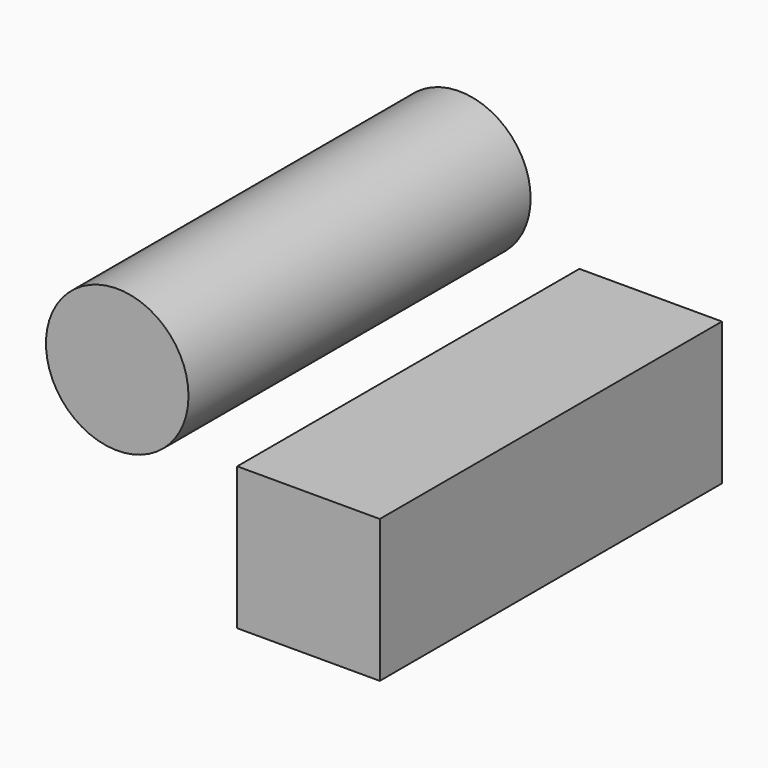
from build123d import *

# Parameters (mm, degrees)
F0_R     = 12.7
F0_W     = 25.4
F0_H     = 25.4
F1_DEPTH = 76.2


with BuildPart() as f1:
    # F0 (on Front) → F1 (new body)
    with BuildSketch(Plane.XZ):
        with Locations((-64.160764, 44.301476)):
            Circle(F0_R)
        with Locations((-30.076874, 23.393459)):
            Rectangle(F0_W, F0_H)
    extrude(amount=F1_DEPTH)


solid = f1.part
